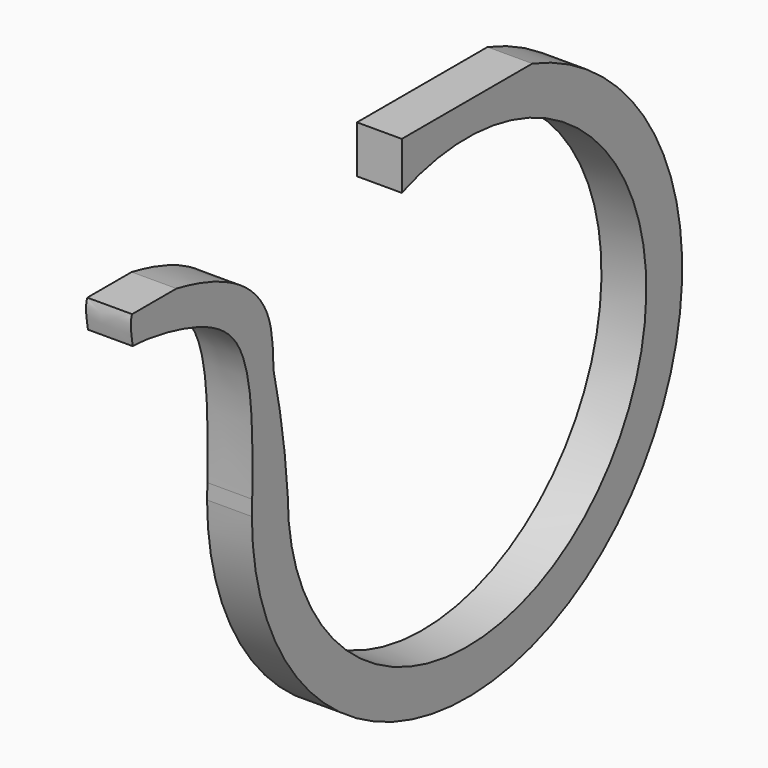
from build123d import *

# Parameters (mm, degrees)
F1_DEPTH = 2


with BuildPart() as f1:
    # F0 (on Right) → F1 (new body)
    with BuildSketch(Plane.YZ):
        with BuildLine():
            ThreePointArc((-3.6381939636, 9.3146950934), (8.257782379, -5.639949484), (-10, 0))
            ThreePointArc((-10, 0), (-10.2934540428, 2.639788856), (-10.791214382, 5.2487800641))
            add(Edge.make_bspline(
                [(-10.791214382, 5.2487800641), (-10.8154983711, 6.0263408015), (-10.8550299677, 7.5670980598), (-12.3278240582, 9.3781898524), (-14.520874836, 10.293629199), (-15.7277697161, 10.5687391244), (-16.2077791764, 10.6652913886)],
                knots=[0, 0, 0, 0, 0.1757337799, 0.3486956058, 0.5366450397, 0.6536048932, 0.6536048932, 0.6536048932, 0.6536048932], degree=3))
            Line((-16.2077791764, 10.6652913886), (-18.6808016236, 10.6652913886))
            add(Edge.make_bspline(
                [(-18.6808016236, 10.6652913886), (-18.8148572024, 10.3772405868), (-18.7289432635, 9.8841331089), (-18.6430066824, 9.3909176067)],
                knots=[0.8827630608, 0.8827630608, 0.8827630608, 0.8827630608, 1, 1, 1, 1], degree=3))
            add(Edge.make_bspline(
                [(-11.9811552234, 0.6722495916), (-11.9564777557, 1.6261020361), (-11.9298565867, 3.7922413277), (-12.3964002274, 7.4877698942), (-15.2123230374, 8.8798414319), (-17.7170112276, 9.3591077307), (-18.3933537904, 9.3823415089), (-18.6430066824, 9.3909176067)],
                knots=[0.0450488473, 0.0450488473, 0.0450488473, 0.0450488473, 0.2364437545, 0.4744993228, 0.6873004248, 0.8845757201, 1, 1, 1, 1], degree=3))
            add(Edge.make_bspline(
                [(-12, 0), (-11.9934817942, 0.2238701027), (-11.9869635883, 0.4477402053), (-11.9811552234, 0.6722495916)],
                knots=[0, 0, 0, 0, 0.0450488473, 0.0450488473, 0.0450488473, 0.0450488473], degree=3))
            ThreePointArc((-12, 0), (7.0831374558, -9.686545503), (3.6381939636, 11.4351888783))
            Line((3.6381939636, 11.4351888783), (-3.6381939636, 11.4351888783))
            Line((-3.6381939636, 11.4351888783), (-3.6381939636, 9.3146950934))
        make_face()
    extrude(amount=F1_DEPTH)


solid = f1.part
